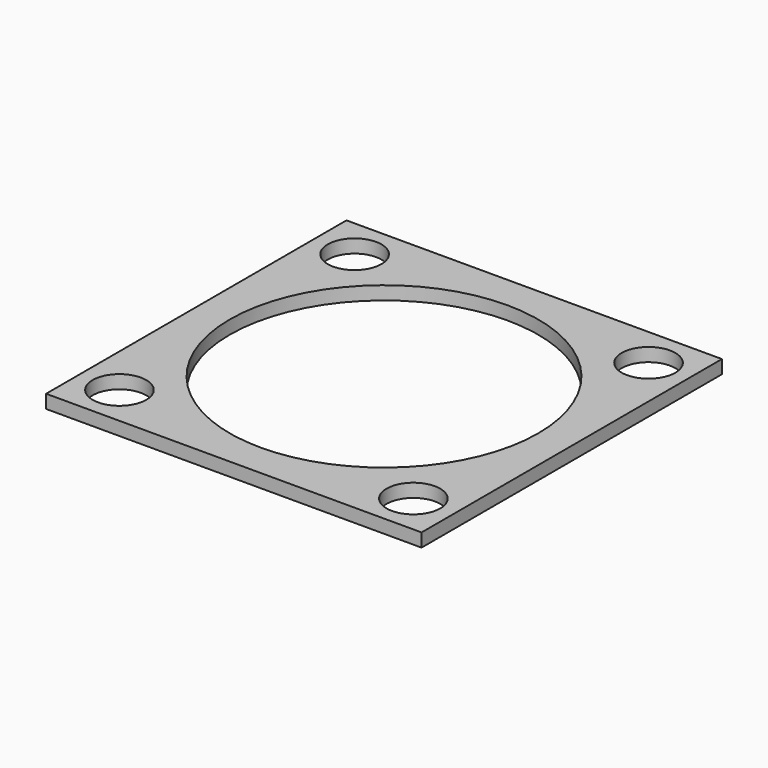
from build123d import *

# Parameters (mm, degrees)
SKETCH001_W   = 28
SKETCH001_H   = 28
SKETCH001_R   = 2
SKETCH001_R_2 = 11.5
PAD_DEPTH     = 1


with BuildPart() as part:
    # Sketch001 → Pad (new body)
    with BuildSketch(Plane.XY):
        Rectangle(SKETCH001_W, SKETCH001_H)
        with Locations((-10.960155, 10.960155)):
            Circle(SKETCH001_R, mode=Mode.SUBTRACT)
        with Locations((-10.960155, -10.960155)):
            Circle(SKETCH001_R, mode=Mode.SUBTRACT)
        with Locations((10.960155, 10.960155)):
            Circle(SKETCH001_R, mode=Mode.SUBTRACT)
        with Locations((10.960155, -10.960155)):
            Circle(SKETCH001_R, mode=Mode.SUBTRACT)
        Circle(SKETCH001_R_2, mode=Mode.SUBTRACT)
    extrude(amount=PAD_DEPTH)


solid = part.part
